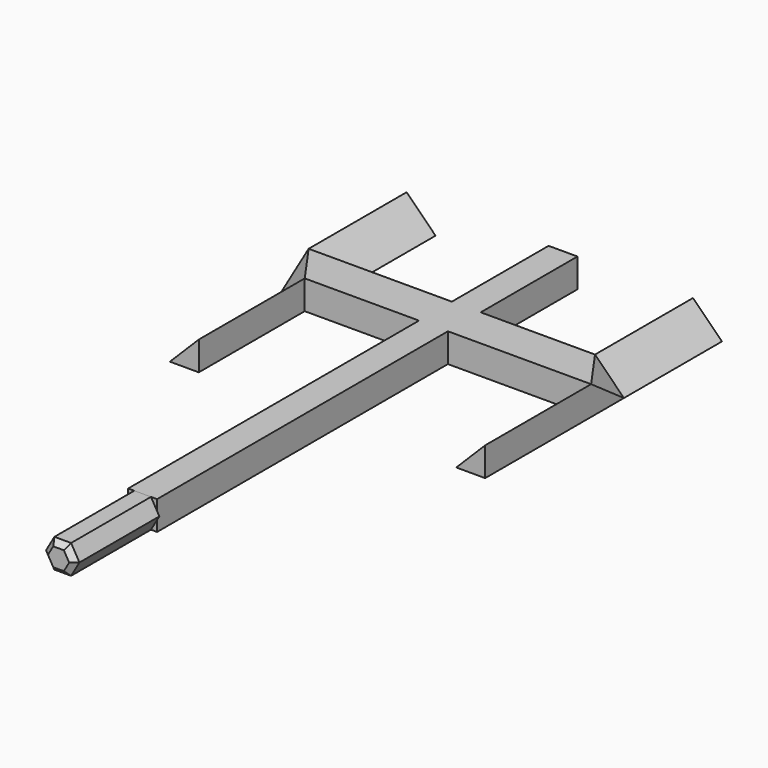
from build123d import *

# Parameters (mm, degrees)
F2_DEPTH  = 5.5
F4_DEPTH  = 20
F5_SIZE   = 1
F7_DEPTH  = 25.2006128335
F9_DEPTH  = 23.3118180281
F12_DEPTH = 3.481088538
F15_DEPTH = 3.4810885381


with BuildPart() as f2:
    # F1 (on Top) → F2 (new body)
    with BuildSketch(Plane.XY):
        Polygon((-59.9452278197, 75.287711217), (-65.4452278197, 75.287711217), (-65.4452278197, 52.2770658135), (-87.1952278197, 52.2770658135), (-87.1952278197, 75.5888838416), (-92.6952278197, 75.5888838416), (-92.6952278197, 19.2692689693), (-87.1952278197, 19.2692689693), (-87.1952278197, 44.4698818028), (-65.4452278197, 44.4698818028), (-65.4452278197, -24.712288783), (-59.9452278197, -24.712288783), (-59.9452278197, 44.4698818028), (-38.1952278197, 44.4698818028), (-38.1952278197, 19.2692689693), (-32.6952278197, 19.2692689693), (-32.6952278197, 75.5888838416), (-38.1952278197, 75.5888838416), (-38.1952278197, 52.2770658135), (-59.9452278197, 52.2770658135), align=None)
    extrude(amount=F2_DEPTH)

    # F3 (on face) → F4 (join)
    with BuildSketch(Plane.XZ.offset(24.712288783)):
        Polygon((-64.2827278197, 0.000369343), (-61.1077278197, 0.000369343), (-59.5202278197, 2.75), (-61.1077278197, 5.499630657), (-64.2827278197, 5.499630657), (-65.8702278197, 2.75), align=None)
    extrude(amount=F4_DEPTH)

    # F5
    f5_edges = [f2.edges().sort_by_distance(p)[0] for p in [
        (-62.695228, -44.712289, 0.000369),
        (-60.313978, -44.712289, 1.375185),
        (-60.313978, -44.712289, 4.124815),
        (-62.695228, -44.712289, 5.499631),
        (-65.076478, -44.712289, 4.124815),
        (-65.076478, -44.712289, 1.375185),
    ]]
    chamfer(f5_edges, length=F5_SIZE)

    # F6 (on face) → F7 (cut, through all)
    with BuildSketch(Plane.XZ.offset(-19.2692689693)):
        Polygon((-38.1952278197, 5.5), (-38.1952278197, 0), (-32.6952278197, 5.5), align=None)
        Polygon((-92.6952278197, 5.5), (-92.6952278197, 0), (-87.1952278197, 5.5), align=None)
    extrude(amount=-F7_DEPTH, mode=Mode.SUBTRACT)

    # F8 (on face) → F9 (cut, through all)
    with BuildSketch(Plane(origin=(0, 75.5888838416, 0), x_dir=(-1, 0, 0), z_dir=(0, 1, 0))):
        Polygon((32.6952278197, 0), (38.1952278197, 5.5), (32.6952278197, 5.5), align=None)
        Polygon((87.1952278197, 0), (92.6952278197, 5.5), (87.1952278197, 5.5), align=None)
    extrude(amount=-F9_DEPTH, mode=Mode.SUBTRACT)

    # F11 (on 3pt) → F12 (cut, through all)
    with BuildSketch(Plane(origin=(1.6556105831, 1.166343485, 1.6556105831), x_dir=(-0.3152867036, 0.8950913859, -0.3152867036), z_dir=(0.6329251887, 0.4458827323, 0.6329251887))):
        Polygon((57.1011218912, 30.8971918968), (48.3789018654, 27.0081046003), (57.1011218912, 23.1190173037), align=None)
    extrude(amount=F12_DEPTH, mode=Mode.SUBTRACT)

    # F14 (on 3pt) → F15 (cut, through all)
    with BuildSketch(Plane(origin=(-24.583315709, -17.3184385322, 24.5833157086), x_dir=(-0.3152867036, 0.8950913859, 0.3152867036), z_dir=(0.6329251887, 0.4458827323, -0.6329251887))):
        Polygon((69.0301809517, -65.5454241745), (77.7524009774, -61.6563368779), (69.0301809516, -57.7672495814), align=None)
    extrude(amount=-F15_DEPTH, mode=Mode.SUBTRACT)


solid = f2.part
